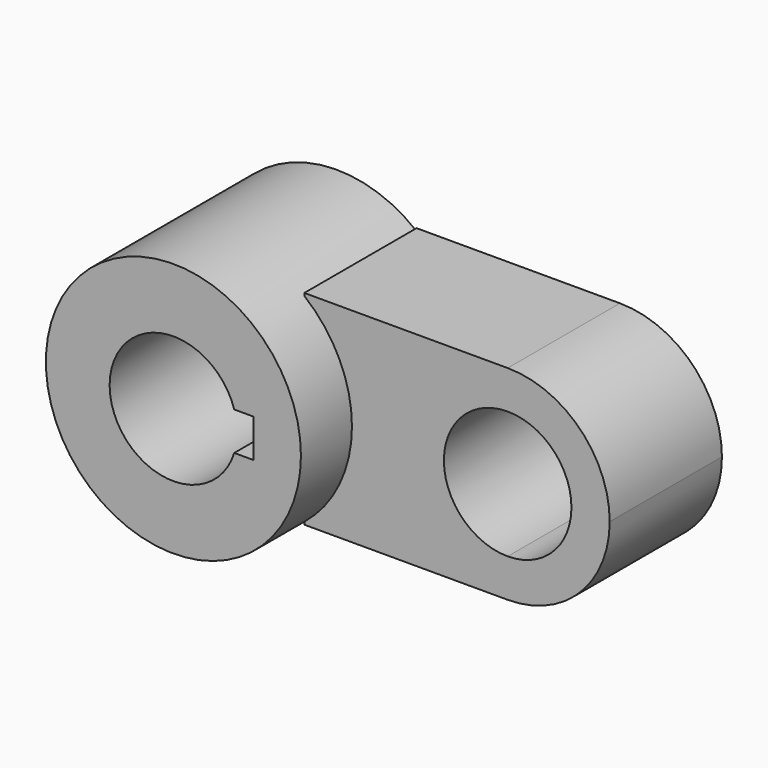
from build123d import *

# Parameters (mm, degrees)
F1_DEPTH = 34.925
F2_R     = 31.75
F3_DEPTH = 50.8


with BuildPart() as f1:
    # F0 (on Front) → F1 (new body)
    with BuildSketch(Plane.XZ):
        with BuildLine():
            Line((38.1, 25.4), (-9.5485188067, 25.4))
            Line((-9.5485188067, 25.4), (-12.5222, 25.4))
            Line((-12.5222, 25.4), (-12.5222, -25.4))
            Line((-12.5222, -25.4), (-9.5485188067, -25.4))
            Line((-9.5485188067, -25.4), (38.1, -25.4))
            ThreePointArc((38.1, -25.4), (12.7, 0), (38.1, 25.4))
        make_face()
        with BuildLine():
            ThreePointArc((63.5, 0), (56.0605122421, 17.9605122421), (38.1, 25.4))
            Line((38.1, 25.4), (38.1, 15.875))
            ThreePointArc((38.1, 15.875), (49.3253201513, 11.2253201513), (53.975, 0))
            ThreePointArc((53.975, 0), (49.3253201513, -11.2253201513), (38.1, -15.875))
            Line((38.1, -15.875), (38.1, -25.4))
            ThreePointArc((38.1, -25.4), (56.0605122421, -17.9605122421), (63.5, 0))
        make_face()
        with BuildLine():
            Line((38.1, 15.875), (38.1, 25.4))
            ThreePointArc((38.1, 25.4), (12.7, 0), (38.1, -25.4))
            Line((38.1, -25.4), (38.1, -15.875))
            ThreePointArc((38.1, -15.875), (22.225, 0), (38.1, 15.875))
        make_face()
    extrude(amount=F1_DEPTH)

    # F2 (on Front) → F3 (join)
    with BuildSketch(Plane.XZ):
        with Locations((-32.41843798, 0)):
            Circle(F2_R)
        with BuildLine():
            ThreePointArc((-17.2746531575, -4.7625), (-48.29343798, 0), (-17.2746531575, 4.7625))
            Line((-17.2746531575, 4.7625), (-12.5121531575, 4.7625))
            Line((-12.5121531575, 4.7625), (-12.5121531575, -4.7625))
            Line((-12.5121531575, -4.7625), (-17.2746531575, -4.7625))
        make_face(mode=Mode.SUBTRACT)
    extrude(amount=F3_DEPTH)


solid = f1.part
